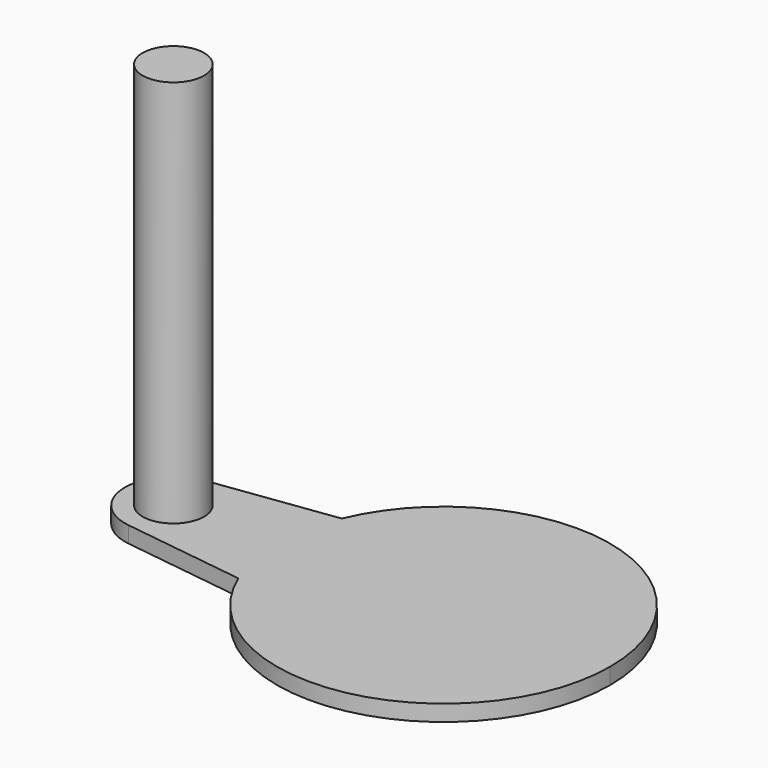
from build123d import *

# Parameters (mm, degrees)
F0_R     = 1.5
F1_DEPTH = 1
F2_R     = 1.9
F3_DEPTH = 25


with BuildPart() as f1:
    # F0 (on Top) → F1 (new body)
    with BuildSketch(Plane.XY):
        with BuildLine():
            ThreePointArc((-9.491575, -4), (2.040438, -10.095871), (10.3, 0))
            ThreePointArc((10.3, 0), (2.040438, 10.095871), (-9.491575, 4))
            ThreePointArc((-9.491575, 4), (-10.3, 0), (-9.491575, -4))
        make_face()
        with BuildLine():
            ThreePointArc((-9.491575, -4), (-10.3, 0), (-9.491575, 4))
            Line((-9.491575, 4), (-17.101224, 2.973049))
            ThreePointArc((-17.101224, 2.973049), (-14.725623, 2.258725), (-13.7, 0))
            ThreePointArc((-13.7, 0), (-14.725623, -2.258725), (-17.101224, -2.973049))
            Line((-17.101224, -2.973049), (-9.491575, -4))
        make_face()
        with BuildLine():
            ThreePointArc((-13.7, 0), (-14.725623, 2.258725), (-17.101224, 2.973049))
            ThreePointArc((-17.101224, 2.973049), (-19.7, 0), (-17.101224, -2.973049))
            ThreePointArc((-17.101224, -2.973049), (-14.725623, -2.258725), (-13.7, 0))
        make_face()
        with Locations((-16.7, 0)):
            Circle(F0_R, mode=Mode.SUBTRACT)
    extrude(amount=-F1_DEPTH)

    # F2 (on face) → F3 (join)
    with BuildSketch(Plane(origin=(0, 0, -1), x_dir=(1, 0, 0), z_dir=(0, 0, -1))):
        with Locations((-16.7, 0)):
            Circle(F2_R)
    extrude(amount=-F3_DEPTH)


solid = f1.part
